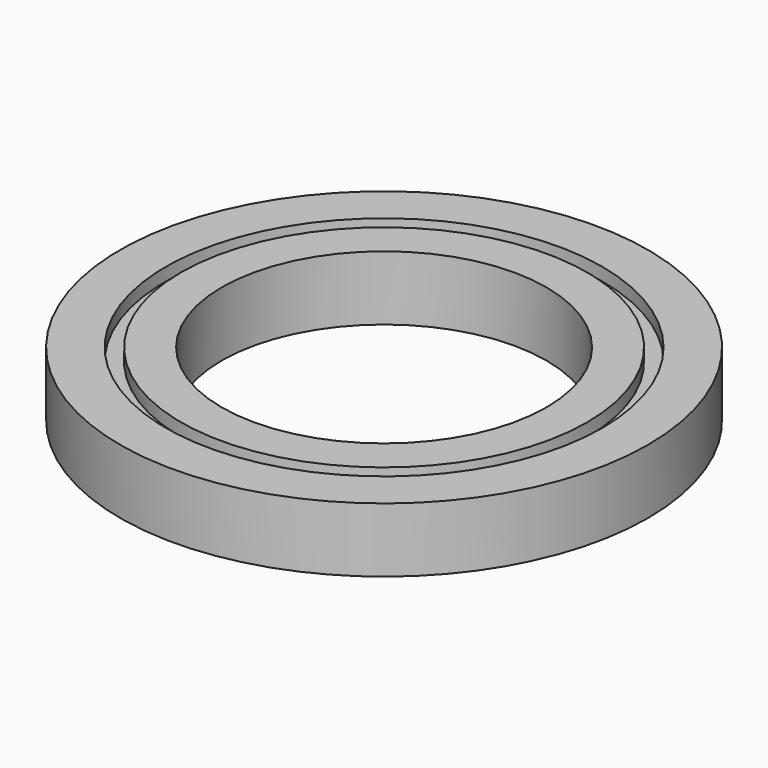
from build123d import *

# Parameters (mm, degrees)
F0_R     = 20
F0_R_2   = 16
F1_DEPTH = 6.35
F0_R_3   = 21.5
F2_DEPTH = 5.08
F0_R_4   = 26
F3_DEPTH = 6.35


with BuildPart() as f1:
    # F0 (on Top) → F1 (new body)
    with BuildSketch(Plane.XY):
        Circle(F0_R)
        Circle(F0_R_2, mode=Mode.SUBTRACT)
    extrude(amount=F1_DEPTH)

    # F0 (on Top) → F2 (join)
    with BuildSketch(Plane.XY):
        Circle(F0_R_3)
        Circle(F0_R, mode=Mode.SUBTRACT)
    extrude(amount=F2_DEPTH)

    # F0 (on Top) → F3 (join)
    with BuildSketch(Plane.XY):
        Circle(F0_R_4)
        Circle(F0_R_3, mode=Mode.SUBTRACT)
    extrude(amount=F3_DEPTH)


solid = f1.part
